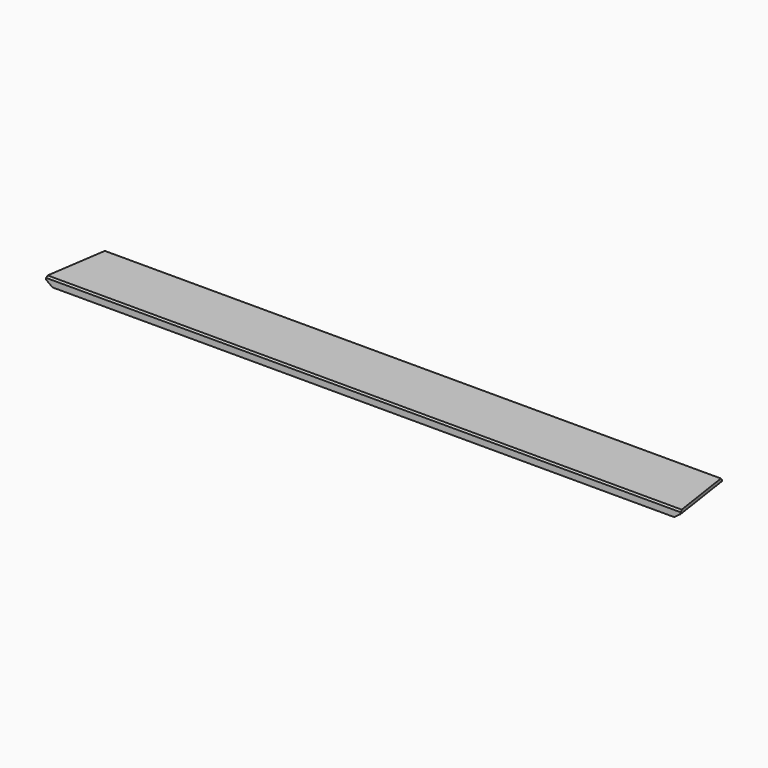
from build123d import *

# Parameters (mm, degrees)
F0_W     = 2000
F0_H     = 25
F1_DEPTH = 200
F2_SIZE  = 5
F4_DEPTH = 153
F5_SIZE2 = 15
F5_SIZE  = 20


with BuildPart() as f1:
    # F0 (on Front) → F1 (new body)
    with BuildSketch(Plane.XZ):
        with Locations((-1000, 12.5)):
            Rectangle(F0_W, F0_H)
    extrude(amount=F1_DEPTH)

    # F2
    f2_edges = [f1.edges().sort_by_distance(p)[0] for p in [
        (-1000, -200, 25),
        (-1000, 0, 25),
    ]]
    chamfer(f2_edges, length=F2_SIZE)

    # F3 (on Top) → F4 (cut)
    with BuildSketch(Plane.XY):
        Polygon((0, -200), (0, 0), (-30, 0), align=None)
        Polygon((-2000, 0), (-2000, -200), (-1970, 0), align=None)
    extrude(amount=F4_DEPTH, mode=Mode.SUBTRACT)

    # F5
    f5_edges = [f1.edges().sort_by_distance(p)[0] for p in [
        (-1000, 0, 0),
        (-15, -100, 0),
        (-1985, -100, 0),
    ]]
    f5_side = f1.faces().sort_by_distance((-1000, -100.507614, 0))[0]
    chamfer(f5_edges, length=F5_SIZE, length2=F5_SIZE2, reference=f5_side)


solid = f1.part
